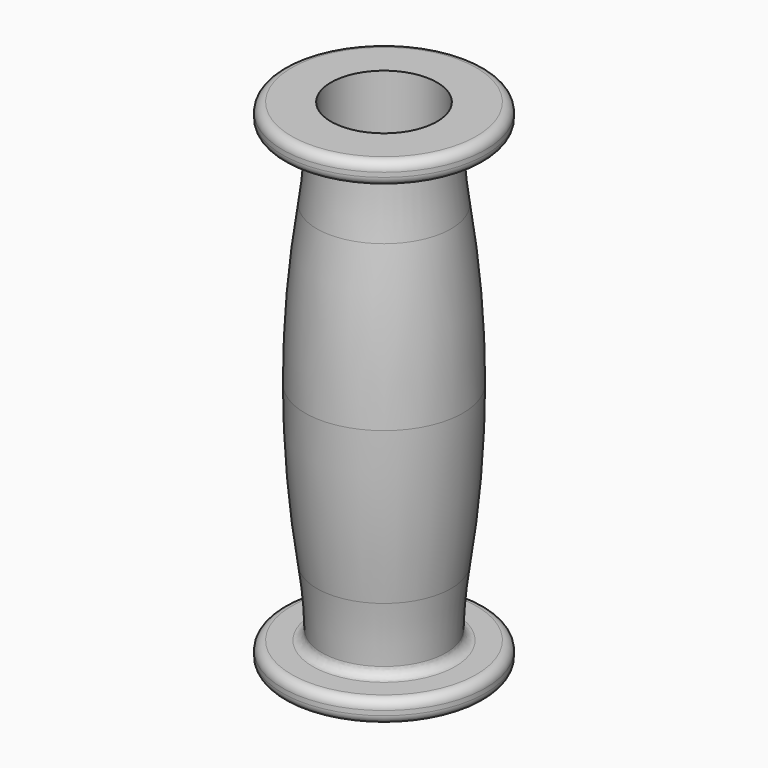
from build123d import *

# Parameters (mm, degrees)
F2_R = 2


with BuildPart() as f1:
    # F0 (on Right) → F1 (revolve)
    with BuildSketch(Plane.YZ):
        with BuildLine():
            Line((11.75, 15), (11.75, -55))
            Line((11.75, -55), (22.5, -55))
            Line((22.5, -55), (22.5, -50))
            Line((22.5, -50), (13.75, -50))
            ThreePointArc((13.75, -50), (14.030069, -42.521005), (14.868707, -35.083903))
            ThreePointArc((14.868707, -35.083903), (16.841254, -17.591219), (17.5, 0))
            ThreePointArc((17.5, 0), (16.841254, 17.591219), (14.868707, 35.083903))
            ThreePointArc((14.868707, 35.083903), (14.030069, 42.521005), (13.75, 50))
            Line((13.75, 50), (22.5, 50))
            Line((22.5, 50), (22.5, 55))
            Line((22.5, 55), (11.75, 55))
            Line((11.75, 55), (11.75, 15))
        make_face()
    revolve(axis=Axis((0, 0, 0), (0, 0, -1)))

    # F2
    f2_edges = [f1.edges().sort_by_distance(p)[0] for p in [
        (0, -22.5, 50),
        (0, -22.5, 55),
        (0, 22.5, 52.5),
        (0, -22.5, -55),
        (0, -22.5, -50),
        (0, 22.5, -52.5),
        (0, -13.75, 50),
        (0, -13.75, -50),
    ]]
    fillet(f2_edges, radius=F2_R)


solid = f1.part
